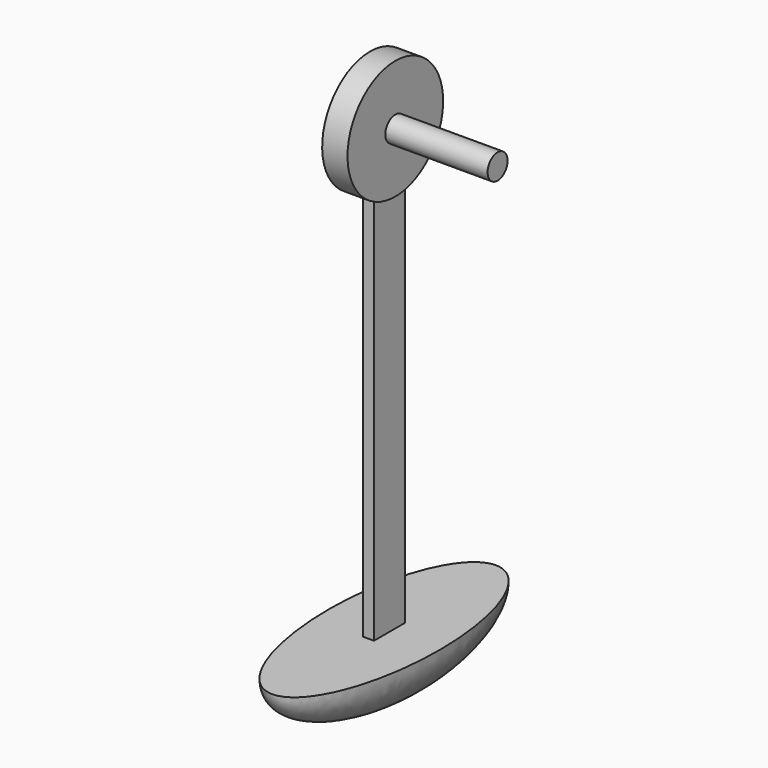
from build123d import *

# Parameters (mm, degrees)
F0_W     = 13.1121994928
F0_H     = 1.6037151217
F0_W_2   = 1.4255279675
F0_H_2   = 57.0257019255
F2_DEPTH = 2.5
F5_ANGLE = 180


with BuildPart() as f1:
    # F0 (on Front) → F1 (revolve)
    with BuildSketch(Plane.XZ):
        Polygon((-13.1121994928, 65.8466780561), (-13.1121994928, 67.4503931779), (-13.1121994928, 73.5088886696), (-16.3641842082, 73.5088886696), (-16.3641842082, 65.8466780562), (-15.271612443, 65.8466780562), (-13.8460844755, 65.8466780562), align=None)
        with Locations((-6.5560997464, 66.648535617)):
            Rectangle(F0_W, F0_H)
    revolve(axis=Axis((-8.1820921041, 0, 65.8466780562), (1, 0, 0)))

    # F0 (on Front) → F2 (join, symmetric)
    with BuildSketch(Plane.XZ):
        with Locations((-14.5588484593, 37.3338270934)):
            Rectangle(F0_W_2, F0_H_2)
    extrude(amount=F2_DEPTH, both=True)

    # F4 (on offset) → F5 (revolve)
    with BuildSketch(Plane(origin=(0, 0, 8.8209761307), x_dir=(1, 0, 0), z_dir=(0, 0, -1))):
        with BuildLine():
            Line((-14.5569266751, 2.5077068713), (-14.5569266751, 17.9110467434))
            add(Edge.make_bspline(
                [(-14.5569266751, 17.9110467434), (-21.6491705103, 17.9110467434), (-21.6491705103, 0), (-21.6491705103, -17.9110467434), (-14.5569266751, -17.9110467434)],
                knots=[3.1415926536, 3.1415926536, 3.1415926536, 4.7123889804, 4.7123889804, 6.2831853072, 6.2831853072, 6.2831853072], degree=2, weights=[1, 0.7071067812, 1, 0.7071067812, 1]))
            Line((-14.5569266751, -17.9110467434), (-14.5569266751, 2.5077068713))
        make_face()
    revolve(axis=Axis((-14.5569266751, 0, 8.8209761307), (0, -1, 0)), revolution_arc=F5_ANGLE)


solid = f1.part
